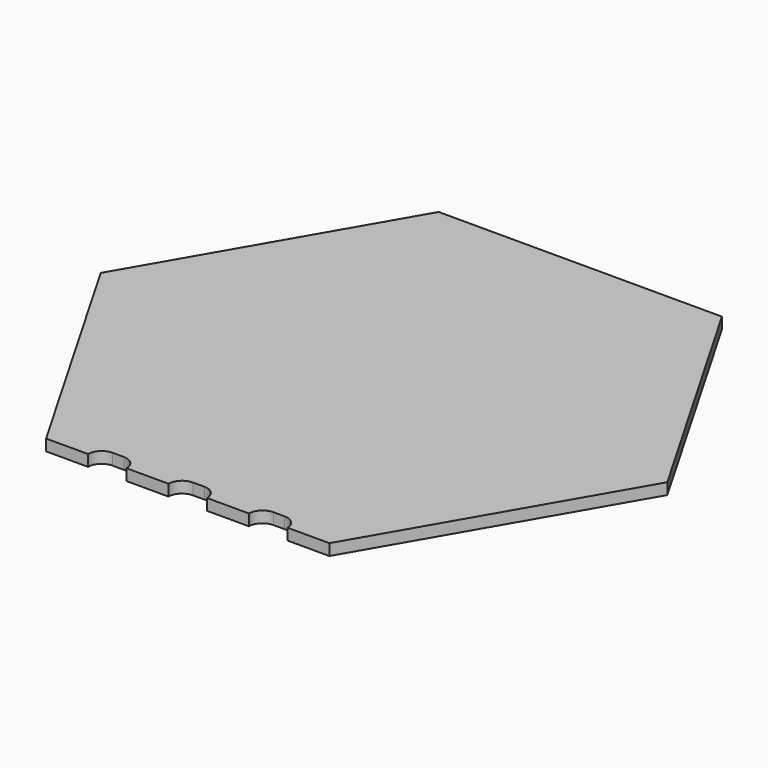
from build123d import *

# Parameters (mm, degrees)
F1_DEPTH = 0.5
F3_DEPTH = 0.501


with BuildPart() as f1:
    # F0 (on Top) → F1 (new body)
    with BuildSketch(Plane.XY):
        Polygon((6.25, -10.825318), (12.5, 0), (6.25, 10.825318), (-6.25, 10.825318), (-12.5, 0), (-6.25, -10.825318), align=None)
    extrude(amount=F1_DEPTH)

    # F2 (on face) → F3 (cut, through all)
    with BuildSketch(Plane.XY.offset(0.5)):
        with BuildLine():
            ThreePointArc((4.4, -10.825318), (4.224264, -10.401053), (3.8, -10.225318))
            Line((3.8, -10.225318), (3.3, -10.225318))
            ThreePointArc((3.3, -10.225318), (2.875736, -10.401053), (2.7, -10.825318))
            Line((2.7, -10.825318), (4.4, -10.825318))
        make_face()
        with BuildLine():
            ThreePointArc((0.85, -10.825318), (0.674264, -10.401053), (0.25, -10.225318))
            Line((0.25, -10.225318), (-0.25, -10.225318))
            ThreePointArc((-0.25, -10.225318), (-0.674264, -10.401053), (-0.85, -10.825318))
            Line((-0.85, -10.825318), (0.85, -10.825318))
        make_face()
        with BuildLine():
            ThreePointArc((-2.7, -10.825318), (-2.875736, -10.401053), (-3.3, -10.225318))
            Line((-3.3, -10.225318), (-3.8, -10.225318))
            ThreePointArc((-3.8, -10.225318), (-4.224264, -10.401053), (-4.4, -10.825318))
            Line((-4.4, -10.825318), (-2.7, -10.825318))
        make_face()
    extrude(amount=-F3_DEPTH, mode=Mode.SUBTRACT)


solid = f1.part
